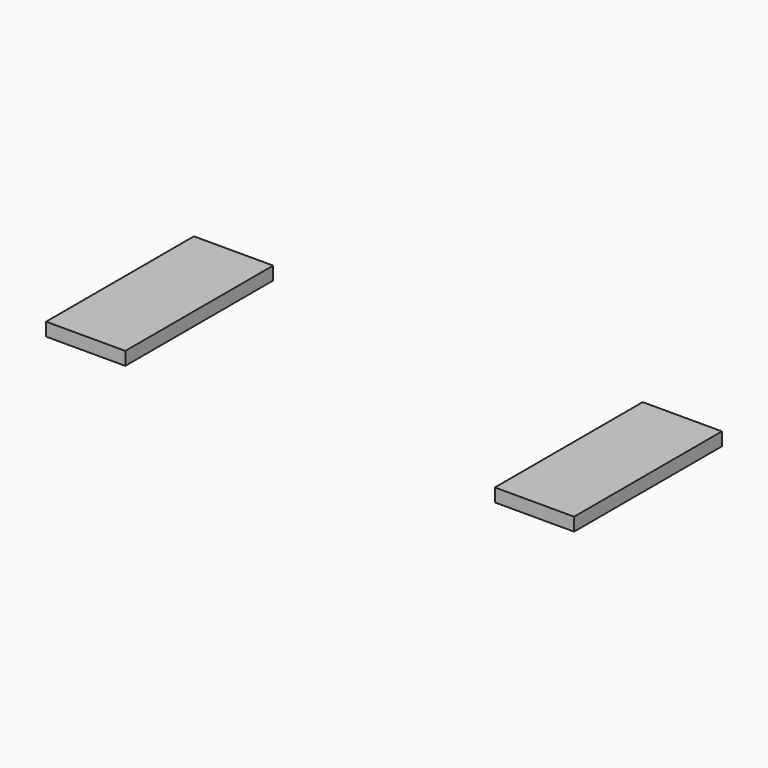
from build123d import *

# Parameters (mm, degrees)
SKETCH049_W  = 0.6
SKETCH049_H  = 1.4
PAD030_DEPTH = 0.1


with BuildPart() as terminal003:
    # Sketch049 → Pad030 (new body)
    with BuildSketch(Plane.XY):
        with Locations((-1.7, 0)):
            Rectangle(SKETCH049_W, SKETCH049_H)
    extrude(amount=PAD030_DEPTH)


with BuildPart() as fusion003:
    # Mirror003: instance of Terminal003
    add(terminal003.part.mirror(Plane(origin=(0, 0, 0), x_dir=(0, -1, 0), z_dir=(1, 0, 0))))

    # Fusion003: union Terminal003
    add(terminal003.part)


solid = fusion003.part
